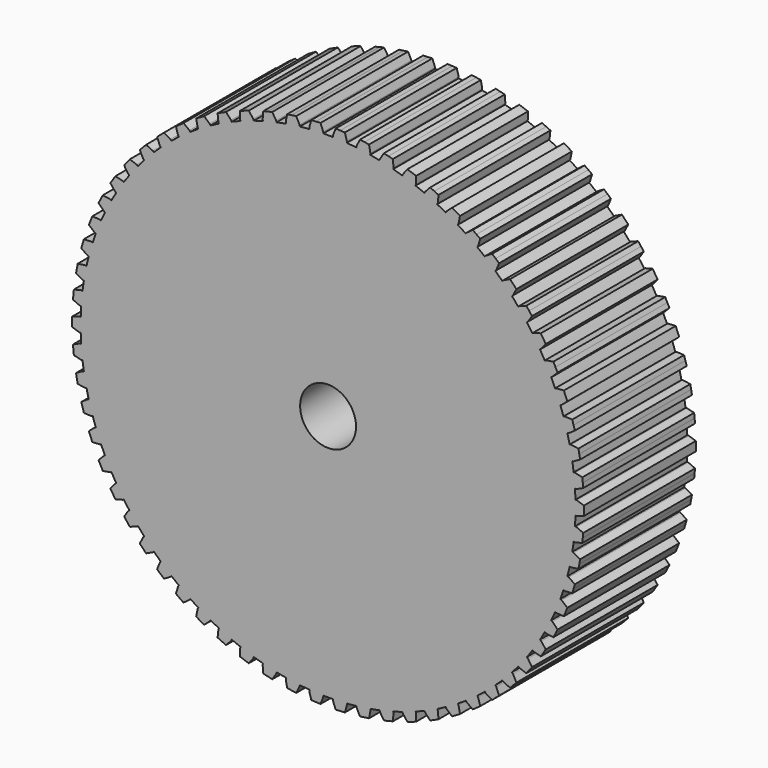
from build123d import *

# Parameters (mm, degrees)
F1_DEPTH = 10
F2_R     = 2
F3_DEPTH = 25.4


with BuildPart() as f1:
    # F0 (on Front) → F1 (new body)
    with BuildSketch(Plane.XZ):
        with BuildLine():
            ThreePointArc((17.692936, -0.5), (17.698234, -0.250025), (17.7, 0))
            ThreePointArc((17.7, 0), (17.698234, 0.250025), (17.692936, 0.5))
            ThreePointArc((17.692936, 0.5), (17.679952, 0.8422), (17.660349, 1.184085))
            ThreePointArc((17.660349, 1.184085), (17.619853, 1.682492), (17.565293, 2.179556))
            ThreePointArc((17.565293, 2.179556), (17.51984, 2.518973), (17.467828, 2.857446))
            ThreePointArc((17.467828, 2.857446), (17.380138, 3.349747), (17.278576, 3.839375))
            ThreePointArc((17.278576, 3.839375), (17.201065, 4.172933), (17.117114, 4.50493))
            ThreePointArc((17.117114, 4.50493), (16.983026, 4.986666), (16.835382, 5.464423))
            ThreePointArc((16.835382, 5.464423), (16.726514, 5.789103), (16.611386, 6.111616))
            ThreePointArc((16.611386, 6.111616), (16.432112, 6.578425), (16.239724, 7.039984))
            ThreePointArc((16.239724, 7.039984), (16.100486, 7.352846), (15.955222, 7.662955))
            ThreePointArc((15.955222, 7.662955), (15.732387, 8.110609), (15.496996, 8.55179))
            ThreePointArc((15.496996, 8.55179), (15.32865, 8.85), (15.154566, 9.144897))
            ThreePointArc((15.154566, 9.144897), (14.890188, 9.569342), (14.613925, 9.98615))
            ThreePointArc((14.613925, 9.98615), (14.417994, 10.267007), (14.216667, 10.544021))
            ThreePointArc((14.216667, 10.544021), (13.91314, 10.941414), (13.598508, 11.330074))
            ThreePointArc((13.598508, 11.330074), (13.376767, 11.591035), (13.15002, 11.847657))
            ThreePointArc((13.15002, 11.847657), (12.810092, 12.214399), (12.459941, 12.571391))
            ThreePointArc((12.459941, 12.571391), (12.214399, 12.810092), (11.964284, 13.043999))
            ThreePointArc((11.964284, 13.043999), (11.591035, 13.376767), (11.208535, 13.69886))
            ThreePointArc((11.208535, 13.69886), (10.941414, 13.91314), (10.670198, 14.122212))
            ThreePointArc((10.670198, 14.122212), (10.267007, 14.417994), (9.855622, 14.702269))
            ThreePointArc((9.855622, 14.702269), (9.569342, 14.890188), (9.279481, 15.072532))
            ThreePointArc((9.279481, 15.072532), (8.85, 15.32865), (8.413456, 15.572532))
            ThreePointArc((8.413456, 15.572532), (8.110609, 15.732387), (7.804727, 15.886354))
            ThreePointArc((7.804727, 15.886354), (7.352846, 16.100486), (6.895095, 16.301769))
            ThreePointArc((6.895095, 16.301769), (6.578425, 16.432112), (6.259293, 16.556305))
            ThreePointArc((6.259293, 16.556305), (5.789103, 16.726514), (5.314292, 16.883373))
            ThreePointArc((5.314292, 16.883373), (4.986666, 16.983026), (4.657174, 17.076321))
            ThreePointArc((4.657174, 17.076321), (4.172933, 17.201065), (3.685362, 17.31208))
            ThreePointArc((3.685362, 17.31208), (3.349747, 17.380138), (3.012878, 17.44169))
            ThreePointArc((3.012878, 17.44169), (2.518973, 17.51984), (2.023057, 17.584005))
            ThreePointArc((2.023057, 17.584005), (1.682492, 17.619853), (1.341297, 17.649105))
            ThreePointArc((1.341297, 17.649105), (0.8422, 17.679952), (0.34243, 17.696687))
            ThreePointArc((0.34243, 17.696687), (0, 17.7), (-0.34243, 17.696687))
            ThreePointArc((-0.34243, 17.696687), (-0.8422, 17.679952), (-1.341297, 17.649105))
            ThreePointArc((-1.341297, 17.649105), (-1.682492, 17.619853), (-2.023057, 17.584005))
            ThreePointArc((-2.023057, 17.584005), (-2.518973, 17.51984), (-3.012878, 17.44169))
            ThreePointArc((-3.012878, 17.44169), (-3.349747, 17.380138), (-3.685362, 17.31208))
            ThreePointArc((-3.685362, 17.31208), (-4.172933, 17.201065), (-4.657174, 17.076321))
            ThreePointArc((-4.657174, 17.076321), (-4.986666, 16.983026), (-5.314292, 16.883373))
            ThreePointArc((-5.314292, 16.883373), (-5.789103, 16.726514), (-6.259293, 16.556305))
            ThreePointArc((-6.259293, 16.556305), (-6.578425, 16.432112), (-6.895095, 16.301769))
            ThreePointArc((-6.895095, 16.301769), (-7.352846, 16.100486), (-7.804727, 15.886354))
            ThreePointArc((-7.804727, 15.886354), (-8.110609, 15.732387), (-8.413456, 15.572532))
            ThreePointArc((-8.413456, 15.572532), (-8.85, 15.32865), (-9.279481, 15.072532))
            ThreePointArc((-9.279481, 15.072532), (-9.569342, 14.890188), (-9.855622, 14.702269))
            ThreePointArc((-9.855622, 14.702269), (-10.267007, 14.417994), (-10.670198, 14.122212))
            ThreePointArc((-10.670198, 14.122212), (-10.941414, 13.91314), (-11.208535, 13.69886))
            ThreePointArc((-11.208535, 13.69886), (-11.591035, 13.376767), (-11.964284, 13.043999))
            ThreePointArc((-11.964284, 13.043999), (-12.214399, 12.810092), (-12.459941, 12.571391))
            ThreePointArc((-12.459941, 12.571391), (-12.810092, 12.214399), (-13.15002, 11.847657))
            ThreePointArc((-13.15002, 11.847657), (-13.376767, 11.591035), (-13.598508, 11.330074))
            ThreePointArc((-13.598508, 11.330074), (-13.91314, 10.941414), (-14.216667, 10.544021))
            ThreePointArc((-14.216667, 10.544021), (-14.417994, 10.267007), (-14.613925, 9.98615))
            ThreePointArc((-14.613925, 9.98615), (-14.890188, 9.569342), (-15.154566, 9.144897))
            ThreePointArc((-15.154566, 9.144897), (-15.32865, 8.85), (-15.496996, 8.55179))
            ThreePointArc((-15.496996, 8.55179), (-15.732387, 8.110609), (-15.955222, 7.662955))
            ThreePointArc((-15.955222, 7.662955), (-16.100486, 7.352846), (-16.239724, 7.039984))
            ThreePointArc((-16.239724, 7.039984), (-16.432112, 6.578425), (-16.611386, 6.111616))
            ThreePointArc((-16.611386, 6.111616), (-16.726514, 5.789103), (-16.835382, 5.464423))
            ThreePointArc((-16.835382, 5.464423), (-16.983026, 4.986666), (-17.117114, 4.50493))
            ThreePointArc((-17.117114, 4.50493), (-17.201065, 4.172933), (-17.278576, 3.839375))
            ThreePointArc((-17.278576, 3.839375), (-17.380138, 3.349747), (-17.467828, 2.857446))
            ThreePointArc((-17.467828, 2.857446), (-17.51984, 2.518973), (-17.565293, 2.179556))
            ThreePointArc((-17.565293, 2.179556), (-17.619853, 1.682492), (-17.660349, 1.184085))
            ThreePointArc((-17.660349, 1.184085), (-17.679952, 0.8422), (-17.692936, 0.5))
            ThreePointArc((-17.692936, 0.5), (-17.7, 0), (-17.692936, -0.5))
            ThreePointArc((-17.692936, -0.5), (-17.679952, -0.8422), (-17.660349, -1.184085))
            ThreePointArc((-17.660349, -1.184085), (-17.619853, -1.682492), (-17.565293, -2.179556))
            ThreePointArc((-17.565293, -2.179556), (-17.51984, -2.518973), (-17.467828, -2.857446))
            ThreePointArc((-17.467828, -2.857446), (-17.380138, -3.349747), (-17.278576, -3.839375))
            ThreePointArc((-17.278576, -3.839375), (-17.201065, -4.172933), (-17.117114, -4.50493))
            ThreePointArc((-17.117114, -4.50493), (-16.983026, -4.986666), (-16.835382, -5.464423))
            ThreePointArc((-16.835382, -5.464423), (-16.726514, -5.789103), (-16.611386, -6.111616))
            ThreePointArc((-16.611386, -6.111616), (-16.432112, -6.578425), (-16.239724, -7.039984))
            ThreePointArc((-16.239724, -7.039984), (-16.100486, -7.352846), (-15.955222, -7.662955))
            ThreePointArc((-15.955222, -7.662955), (-15.732387, -8.110609), (-15.496996, -8.55179))
            ThreePointArc((-15.496996, -8.55179), (-15.32865, -8.85), (-15.154566, -9.144897))
            ThreePointArc((-15.154566, -9.144897), (-14.890188, -9.569342), (-14.613925, -9.98615))
            ThreePointArc((-14.613925, -9.98615), (-14.417994, -10.267007), (-14.216667, -10.544021))
            ThreePointArc((-14.216667, -10.544021), (-13.91314, -10.941414), (-13.598508, -11.330074))
            ThreePointArc((-13.598508, -11.330074), (-13.376767, -11.591035), (-13.15002, -11.847657))
            ThreePointArc((-13.15002, -11.847657), (-12.810092, -12.214399), (-12.459941, -12.571391))
            ThreePointArc((-12.459941, -12.571391), (-12.214399, -12.810092), (-11.964284, -13.043999))
            ThreePointArc((-11.964284, -13.043999), (-11.591035, -13.376767), (-11.208535, -13.69886))
            ThreePointArc((-11.208535, -13.69886), (-10.941414, -13.91314), (-10.670198, -14.122212))
            ThreePointArc((-10.670198, -14.122212), (-10.267007, -14.417994), (-9.855622, -14.702269))
            ThreePointArc((-9.855622, -14.702269), (-9.569342, -14.890188), (-9.279481, -15.072532))
            ThreePointArc((-9.279481, -15.072532), (-8.85, -15.32865), (-8.413456, -15.572532))
            ThreePointArc((-8.413456, -15.572532), (-8.110609, -15.732387), (-7.804727, -15.886354))
            ThreePointArc((-7.804727, -15.886354), (-7.352846, -16.100486), (-6.895095, -16.301769))
            ThreePointArc((-6.895095, -16.301769), (-6.578425, -16.432112), (-6.259293, -16.556305))
            ThreePointArc((-6.259293, -16.556305), (-5.789103, -16.726514), (-5.314292, -16.883373))
            ThreePointArc((-5.314292, -16.883373), (-4.986666, -16.983026), (-4.657174, -17.076321))
            ThreePointArc((-4.657174, -17.076321), (-4.172933, -17.201065), (-3.685362, -17.31208))
            ThreePointArc((-3.685362, -17.31208), (-3.349747, -17.380138), (-3.012878, -17.44169))
            ThreePointArc((-3.012878, -17.44169), (-2.518973, -17.51984), (-2.023057, -17.584005))
            ThreePointArc((-2.023057, -17.584005), (-1.682492, -17.619853), (-1.341297, -17.649105))
            ThreePointArc((-1.341297, -17.649105), (-0.8422, -17.679952), (-0.34243, -17.696687))
            ThreePointArc((-0.34243, -17.696687), (0, -17.7), (0.34243, -17.696687))
            ThreePointArc((0.34243, -17.696687), (0.8422, -17.679952), (1.341297, -17.649105))
            ThreePointArc((1.341297, -17.649105), (1.682492, -17.619853), (2.023057, -17.584005))
            ThreePointArc((2.023057, -17.584005), (2.518973, -17.51984), (3.012878, -17.44169))
            ThreePointArc((3.012878, -17.44169), (3.349747, -17.380138), (3.685362, -17.31208))
            ThreePointArc((3.685362, -17.31208), (4.172933, -17.201065), (4.657174, -17.076321))
            ThreePointArc((4.657174, -17.076321), (4.986666, -16.983026), (5.314292, -16.883373))
            ThreePointArc((5.314292, -16.883373), (5.789103, -16.726514), (6.259293, -16.556305))
            ThreePointArc((6.259293, -16.556305), (6.578425, -16.432112), (6.895095, -16.301769))
            ThreePointArc((6.895095, -16.301769), (7.352846, -16.100486), (7.804727, -15.886354))
            ThreePointArc((7.804727, -15.886354), (8.110609, -15.732387), (8.413456, -15.572532))
            ThreePointArc((8.413456, -15.572532), (8.85, -15.32865), (9.279481, -15.072532))
            ThreePointArc((9.279481, -15.072532), (9.569342, -14.890188), (9.855622, -14.702269))
            ThreePointArc((9.855622, -14.702269), (10.267007, -14.417994), (10.670198, -14.122212))
            ThreePointArc((10.670198, -14.122212), (10.941414, -13.91314), (11.208535, -13.69886))
            ThreePointArc((11.208535, -13.69886), (11.591035, -13.376767), (11.964284, -13.043999))
            ThreePointArc((11.964284, -13.043999), (12.214399, -12.810092), (12.459941, -12.571391))
            ThreePointArc((12.459941, -12.571391), (12.810092, -12.214399), (13.15002, -11.847657))
            ThreePointArc((13.15002, -11.847657), (13.376767, -11.591035), (13.598508, -11.330074))
            ThreePointArc((13.598508, -11.330074), (13.91314, -10.941414), (14.216667, -10.544021))
            ThreePointArc((14.216667, -10.544021), (14.417994, -10.267007), (14.613925, -9.98615))
            ThreePointArc((14.613925, -9.98615), (14.890188, -9.569342), (15.154566, -9.144897))
            ThreePointArc((15.154566, -9.144897), (15.32865, -8.85), (15.496996, -8.55179))
            ThreePointArc((15.496996, -8.55179), (15.732387, -8.110609), (15.955222, -7.662955))
            ThreePointArc((15.955222, -7.662955), (16.100486, -7.352846), (16.239724, -7.039984))
            ThreePointArc((16.239724, -7.039984), (16.432112, -6.578425), (16.611386, -6.111616))
            ThreePointArc((16.611386, -6.111616), (16.726514, -5.789103), (16.835382, -5.464423))
            ThreePointArc((16.835382, -5.464423), (16.983026, -4.986666), (17.117114, -4.50493))
            ThreePointArc((17.117114, -4.50493), (17.201065, -4.172933), (17.278576, -3.839375))
            ThreePointArc((17.278576, -3.839375), (17.380138, -3.349747), (17.467828, -2.857446))
            ThreePointArc((17.467828, -2.857446), (17.51984, -2.518973), (17.565293, -2.179556))
            ThreePointArc((17.565293, -2.179556), (17.619853, -1.682492), (17.660349, -1.184085))
            ThreePointArc((17.660349, -1.184085), (17.679952, -0.8422), (17.692936, -0.5))
        make_face()
        with BuildLine():
            ThreePointArc((17.692936, 0.5), (17.698234, 0.250025), (17.7, 0))
            ThreePointArc((17.7, 0), (17.698234, -0.250025), (17.692936, -0.5))
            Line((17.692936, -0.5), (17.792936, -0.5))
            Line((17.792936, -0.5), (18.3, -0.329923))
            Line((18.3, -0.329923), (18.3, 0))
            Line((18.3, 0), (18.3, 0.329923))
            Line((18.3, 0.329923), (17.792936, 0.5))
            Line((17.792936, 0.5), (17.692936, 0.5))
        make_face()
        with BuildLine():
            ThreePointArc((17.565293, 2.179556), (17.619853, 1.682492), (17.660349, 1.184085))
            Line((17.660349, 1.184085), (17.759897, 1.19359))
            Line((17.759897, 1.19359), (18.248497, 1.411096))
            Line((18.248497, 1.411096), (18.217136, 1.739526))
            Line((18.217136, 1.739526), (18.185775, 2.067955))
            Line((18.185775, 2.067955), (17.664841, 2.189062))
            Line((17.664841, 2.189062), (17.565293, 2.179556))
        make_face()
        with BuildLine():
            Line((17.759897, -1.19359), (17.660349, -1.184085))
            ThreePointArc((17.660349, -1.184085), (17.619853, -1.682492), (17.565293, -2.179556))
            Line((17.565293, -2.179556), (17.664841, -2.189062))
            Line((17.664841, -2.189062), (18.185775, -2.067955))
            Line((18.185775, -2.067955), (18.217136, -1.739526))
            Line((18.217136, -1.739526), (18.248497, -1.411096))
            Line((18.248497, -1.411096), (17.759897, -1.19359))
        make_face()
        with BuildLine():
            ThreePointArc((17.278576, 3.839375), (17.380138, 3.349747), (17.467828, 2.857446))
            Line((17.467828, 2.857446), (17.566021, 2.876371))
            Line((17.566021, 2.876371), (18.031734, 3.139336))
            Line((18.031734, 3.139336), (17.969295, 3.463298))
            Line((17.969295, 3.463298), (17.906857, 3.787259))
            Line((17.906857, 3.787259), (17.376769, 3.8583))
            Line((17.376769, 3.8583), (17.278576, 3.839375))
        make_face()
        with BuildLine():
            Line((17.566021, -2.876371), (17.467828, -2.857446))
            ThreePointArc((17.467828, -2.857446), (17.380138, -3.349747), (17.278576, -3.839375))
            Line((17.278576, -3.839375), (17.376769, -3.8583))
            Line((17.376769, -3.8583), (17.906857, -3.787259))
            Line((17.906857, -3.787259), (17.969295, -3.463298))
            Line((17.969295, -3.463298), (18.031734, -3.139336))
            Line((18.031734, -3.139336), (17.566021, -2.876371))
        make_face()
        with BuildLine():
            ThreePointArc((16.835382, 5.464423), (16.983026, 4.986666), (17.117114, 4.50493))
            Line((17.117114, 4.50493), (17.213064, 4.533103))
            Line((17.213064, 4.533103), (17.651672, 4.839147))
            Line((17.651672, 4.839147), (17.558721, 5.155706))
            Line((17.558721, 5.155706), (17.465771, 5.472265))
            Line((17.465771, 5.472265), (16.931331, 5.492596))
            Line((16.931331, 5.492596), (16.835382, 5.464423))
        make_face()
        with BuildLine():
            Line((17.213064, -4.533103), (17.117114, -4.50493))
            ThreePointArc((17.117114, -4.50493), (16.983026, -4.986666), (16.835382, -5.464423))
            Line((16.835382, -5.464423), (16.931331, -5.492596))
            Line((16.931331, -5.492596), (17.465771, -5.472265))
            Line((17.465771, -5.472265), (17.558721, -5.155706))
            Line((17.558721, -5.155706), (17.651672, -4.839147))
            Line((17.651672, -4.839147), (17.213064, -4.533103))
        make_face()
        with BuildLine():
            ThreePointArc((16.239724, 7.039984), (16.432112, 6.578425), (16.611386, 6.111616))
            Line((16.611386, 6.111616), (16.704223, 6.148782))
            Line((16.704223, 6.148782), (17.111753, 6.495133))
            Line((17.111753, 6.495133), (16.989133, 6.801423))
            Line((16.989133, 6.801423), (16.866513, 7.107713))
            Line((16.866513, 7.107713), (16.33256, 7.07715))
            Line((16.33256, 7.07715), (16.239724, 7.039984))
        make_face()
        with BuildLine():
            Line((16.704223, -6.148782), (16.611386, -6.111616))
            ThreePointArc((16.611386, -6.111616), (16.432112, -6.578425), (16.239724, -7.039984))
            Line((16.239724, -7.039984), (16.33256, -7.07715))
            Line((16.33256, -7.07715), (16.866513, -7.107713))
            Line((16.866513, -7.107713), (16.989133, -6.801423))
            Line((16.989133, -6.801423), (17.111753, -6.495133))
            Line((17.111753, -6.495133), (16.704223, -6.148782))
        make_face()
        with BuildLine():
            ThreePointArc((15.496996, 8.55179), (15.732387, 8.110609), (15.955222, 7.662955))
            Line((15.955222, 7.662955), (16.044106, 7.708778))
            Line((16.044106, 7.708778), (16.416868, 8.092298))
            Line((16.416868, 8.092298), (16.265689, 8.385545))
            Line((16.265689, 8.385545), (16.114509, 8.678793))
            Line((16.114509, 8.678793), (15.585879, 8.597613))
            Line((15.585879, 8.597613), (15.496996, 8.55179))
        make_face()
        with BuildLine():
            Line((16.044106, -7.708778), (15.955222, -7.662955))
            ThreePointArc((15.955222, -7.662955), (15.732387, -8.110609), (15.496996, -8.55179))
            Line((15.496996, -8.55179), (15.585879, -8.597613))
            Line((15.585879, -8.597613), (16.114509, -8.678793))
            Line((16.114509, -8.678793), (16.265689, -8.385545))
            Line((16.265689, -8.385545), (16.416868, -8.092298))
            Line((16.416868, -8.092298), (16.044106, -7.708778))
        make_face()
        with BuildLine():
            ThreePointArc((14.613925, 9.98615), (14.890188, 9.569342), (15.154566, 9.144897))
            Line((15.154566, 9.144897), (15.238691, 9.198961))
            Line((15.238691, 9.198961), (15.57331, 9.616178))
            Line((15.57331, 9.616178), (15.39494, 9.893727))
            Line((15.39494, 9.893727), (15.21657, 10.171276))
            Line((15.21657, 10.171276), (14.69805, 10.040214))
            Line((14.69805, 10.040214), (14.613925, 9.98615))
        make_face()
        with BuildLine():
            Line((15.238691, -9.198961), (15.154566, -9.144897))
            ThreePointArc((15.154566, -9.144897), (14.890188, -9.569342), (14.613925, -9.98615))
            Line((14.613925, -9.98615), (14.69805, -10.040214))
            Line((14.69805, -10.040214), (15.21657, -10.171276))
            Line((15.21657, -10.171276), (15.39494, -9.893727))
            Line((15.39494, -9.893727), (15.57331, -9.616178))
            Line((15.57331, -9.616178), (15.238691, -9.198961))
        make_face()
        with BuildLine():
            ThreePointArc((13.598508, 11.330074), (13.91314, 10.941414), (14.216667, 10.544021))
            Line((14.216667, 10.544021), (14.295272, 10.605837))
            Line((14.295272, 10.605837), (14.588717, 11.052972))
            Line((14.588717, 11.052972), (14.384772, 11.312309))
            Line((14.384772, 11.312309), (14.180826, 11.571647))
            Line((14.180826, 11.571647), (13.677113, 11.39189))
            Line((13.677113, 11.39189), (13.598508, 11.330074))
        make_face()
        with BuildLine():
            Line((14.295272, -10.605837), (14.216667, -10.544021))
            ThreePointArc((14.216667, -10.544021), (13.91314, -10.941414), (13.598508, -11.330074))
            Line((13.598508, -11.330074), (13.677113, -11.39189))
            Line((13.677113, -11.39189), (14.180826, -11.571647))
            Line((14.180826, -11.571647), (14.384772, -11.312309))
            Line((14.384772, -11.312309), (14.588717, -11.052972))
            Line((14.588717, -11.052972), (14.295272, -10.605837))
        make_face()
        with BuildLine():
            ThreePointArc((12.459941, 12.571391), (12.810092, 12.214399), (13.15002, 11.847657))
            Line((13.15002, 11.847657), (13.222393, 11.916665))
            Line((13.222393, 11.916665), (13.472006, 12.389669))
            Line((13.472006, 12.389669), (13.244333, 12.628446))
            Line((13.244333, 12.628446), (13.01666, 12.867223))
            Line((13.01666, 12.867223), (12.532314, 12.640399))
            Line((12.532314, 12.640399), (12.459941, 12.571391))
        make_face()
        with BuildLine():
            Line((13.222393, -11.916665), (13.15002, -11.847657))
            ThreePointArc((13.15002, -11.847657), (12.810092, -12.214399), (12.459941, -12.571391))
            Line((12.459941, -12.571391), (12.532314, -12.640399))
            Line((12.532314, -12.640399), (13.01666, -12.867223))
            Line((13.01666, -12.867223), (13.244333, -12.628446))
            Line((13.244333, -12.628446), (13.472006, -12.389669))
            Line((13.472006, -12.389669), (13.222393, -11.916665))
        make_face()
        with BuildLine():
            ThreePointArc((11.208535, 13.69886), (11.591035, 13.376767), (11.964284, 13.043999))
            Line((11.964284, 13.043999), (12.02977, 13.119574))
            Line((12.02977, 13.119574), (12.233291, 13.614163))
            Line((12.233291, 13.614163), (11.983951, 13.830217))
            Line((11.983951, 13.830217), (11.734612, 14.046271))
            Line((11.734612, 14.046271), (11.274021, 13.774435))
            Line((11.274021, 13.774435), (11.208535, 13.69886))
        make_face()
        with BuildLine():
            Line((12.02977, -13.119574), (11.964284, -13.043999))
            ThreePointArc((11.964284, -13.043999), (11.591035, -13.376767), (11.208535, -13.69886))
            Line((11.208535, -13.69886), (11.274021, -13.774435))
            Line((11.274021, -13.774435), (11.734612, -14.046271))
            Line((11.734612, -14.046271), (11.983951, -13.830217))
            Line((11.983951, -13.830217), (12.233291, -13.614163))
            Line((12.233291, -13.614163), (12.02977, -13.119574))
        make_face()
        with BuildLine():
            ThreePointArc((9.855622, 14.702269), (10.267007, 14.417994), (10.670198, 14.122212))
            Line((10.670198, 14.122212), (10.728204, 14.20367))
            Line((10.728204, 14.20367), (10.883789, 14.715366))
            Line((10.883789, 14.715366), (10.615041, 14.90674))
            Line((10.615041, 14.90674), (10.346294, 15.098114))
            Line((10.346294, 15.098114), (9.913628, 14.783727))
            Line((9.913628, 14.783727), (9.855622, 14.702269))
        make_face()
        with BuildLine():
            Line((10.728204, -14.20367), (10.670198, -14.122212))
            ThreePointArc((10.670198, -14.122212), (10.267007, -14.417994), (9.855622, -14.702269))
            Line((9.855622, -14.702269), (9.913628, -14.783727))
            Line((9.913628, -14.783727), (10.346294, -15.098114))
            Line((10.346294, -15.098114), (10.615041, -14.90674))
            Line((10.615041, -14.90674), (10.883789, -14.715366))
            Line((10.883789, -14.715366), (10.728204, -14.20367))
        make_face()
        with BuildLine():
            ThreePointArc((8.413456, 15.572532), (8.85, 15.32865), (9.279481, 15.072532))
            Line((9.279481, 15.072532), (9.329481, 15.159135))
            Line((9.329481, 15.159135), (9.435722, 15.683303))
            Line((9.435722, 15.683303), (9.15, 15.848265))
            Line((9.15, 15.848265), (8.864278, 16.013227))
            Line((8.864278, 16.013227), (8.463456, 15.659135))
            Line((8.463456, 15.659135), (8.413456, 15.572532))
        make_face()
        with BuildLine():
            Line((9.329481, -15.159135), (9.279481, -15.072532))
            ThreePointArc((9.279481, -15.072532), (8.85, -15.32865), (8.413456, -15.572532))
            Line((8.413456, -15.572532), (8.463456, -15.659135))
            Line((8.463456, -15.659135), (8.864278, -16.013227))
            Line((8.864278, -16.013227), (9.15, -15.848265))
            Line((9.15, -15.848265), (9.435722, -15.683303))
            Line((9.435722, -15.683303), (9.329481, -15.159135))
        make_face()
        with BuildLine():
            ThreePointArc((6.895095, 16.301769), (7.352846, 16.100486), (7.804727, 15.886354))
            Line((7.804727, 15.886354), (7.846269, 15.977317))
            Line((7.846269, 15.977317), (7.902204, 16.50921))
            Line((7.902204, 16.50921), (7.602095, 16.646266))
            Line((7.602095, 16.646266), (7.301986, 16.783321))
            Line((7.301986, 16.783321), (6.936637, 16.392732))
            Line((6.936637, 16.392732), (6.895095, 16.301769))
        make_face()
        with BuildLine():
            Line((7.846269, -15.977317), (7.804727, -15.886354))
            ThreePointArc((7.804727, -15.886354), (7.352846, -16.100486), (6.895095, -16.301769))
            Line((6.895095, -16.301769), (6.936637, -16.392732))
            Line((6.936637, -16.392732), (7.301986, -16.783321))
            Line((7.301986, -16.783321), (7.602095, -16.646266))
            Line((7.602095, -16.646266), (7.902204, -16.50921))
            Line((7.902204, -16.50921), (7.846269, -15.977317))
        make_face()
        with BuildLine():
            ThreePointArc((5.314292, 16.883373), (5.789103, 16.726514), (6.259293, 16.556305))
            Line((6.259293, 16.556305), (6.292, 16.650806))
            Line((6.292, 16.650806), (6.297122, 17.185608))
            Line((6.297122, 17.185608), (5.985344, 17.293515))
            Line((5.985344, 17.293515), (5.673566, 17.401422))
            Line((5.673566, 17.401422), (5.346999, 16.977873))
            Line((5.346999, 16.977873), (5.314292, 16.883373))
        make_face()
        with BuildLine():
            Line((6.292, -16.650806), (6.259293, -16.556305))
            ThreePointArc((6.259293, -16.556305), (5.789103, -16.726514), (5.314292, -16.883373))
            Line((5.314292, -16.883373), (5.346999, -16.977873))
            Line((5.346999, -16.977873), (5.673566, -17.401422))
            Line((5.673566, -17.401422), (5.985344, -17.293515))
            Line((5.985344, -17.293515), (6.297122, -17.185608))
            Line((6.297122, -17.185608), (6.292, -16.650806))
        make_face()
        with BuildLine():
            ThreePointArc((3.685362, 17.31208), (4.172933, 17.201065), (4.657174, 17.076321))
            Line((4.657174, 17.076321), (4.68075, 17.173502))
            Line((4.68075, 17.173502), (4.635012, 17.706369))
            Line((4.635012, 17.706369), (4.314389, 17.784152))
            Line((4.314389, 17.784152), (3.993765, 17.861934))
            Line((3.993765, 17.861934), (3.708938, 17.409261))
            Line((3.708938, 17.409261), (3.685362, 17.31208))
        make_face()
        with BuildLine():
            Line((4.68075, -17.173502), (4.657174, -17.076321))
            ThreePointArc((4.657174, -17.076321), (4.172933, -17.201065), (3.685362, -17.31208))
            Line((3.685362, -17.31208), (3.708938, -17.409261))
            Line((3.708938, -17.409261), (3.993765, -17.861934))
            Line((3.993765, -17.861934), (4.314389, -17.784152))
            Line((4.314389, -17.784152), (4.635012, -17.706369))
            Line((4.635012, -17.706369), (4.68075, -17.173502))
        make_face()
        with BuildLine():
            ThreePointArc((2.023057, 17.584005), (2.518973, 17.51984), (3.012878, 17.44169))
            Line((3.012878, 17.44169), (3.02711, 17.540673))
            Line((3.02711, 17.540673), (2.930927, 18.066779))
            Line((2.930927, 18.066779), (2.604362, 18.113732))
            Line((2.604362, 18.113732), (2.277796, 18.160685))
            Line((2.277796, 18.160685), (2.037288, 17.682987))
            Line((2.037288, 17.682987), (2.023057, 17.584005))
        make_face()
        with BuildLine():
            Line((3.02711, -17.540673), (3.012878, -17.44169))
            ThreePointArc((3.012878, -17.44169), (2.518973, -17.51984), (2.023057, -17.584005))
            Line((2.023057, -17.584005), (2.037288, -17.682987))
            Line((2.037288, -17.682987), (2.277796, -18.160685))
            Line((2.277796, -18.160685), (2.604362, -18.113732))
            Line((2.604362, -18.113732), (2.930927, -18.066779))
            Line((2.930927, -18.066779), (3.02711, -17.540673))
        make_face()
        with BuildLine():
            ThreePointArc((0.34243, 17.696687), (0.8422, 17.679952), (1.341297, 17.649105))
            Line((1.341297, 17.649105), (1.346056, 17.748992))
            Line((1.346056, 17.748992), (1.200299, 18.263574))
            Line((1.200299, 18.263574), (0.870749, 18.279272))
            Line((0.870749, 18.279272), (0.541199, 18.294971))
            Line((0.541199, 18.294971), (0.347188, 17.796574))
            Line((0.347188, 17.796574), (0.34243, 17.696687))
        make_face()
        with BuildLine():
            Line((1.346056, -17.748992), (1.341297, -17.649105))
            ThreePointArc((1.341297, -17.649105), (0.8422, -17.679952), (0.34243, -17.696687))
            Line((0.34243, -17.696687), (0.347188, -17.796574))
            Line((0.347188, -17.796574), (0.541199, -18.294971))
            Line((0.541199, -18.294971), (0.870749, -18.279272))
            Line((0.870749, -18.279272), (1.200299, -18.263574))
            Line((1.200299, -18.263574), (1.346056, -17.748992))
        make_face()
        with BuildLine():
            ThreePointArc((-1.341297, 17.649105), (-0.8422, 17.679952), (-0.34243, 17.696687))
            Line((-0.34243, 17.696687), (-0.347188, 17.796574))
            Line((-0.347188, 17.796574), (-0.541199, 18.294971))
            Line((-0.541199, 18.294971), (-0.870749, 18.279272))
            Line((-0.870749, 18.279272), (-1.200299, 18.263574))
            Line((-1.200299, 18.263574), (-1.346056, 17.748992))
            Line((-1.346056, 17.748992), (-1.341297, 17.649105))
        make_face()
        with BuildLine():
            Line((-0.347188, -17.796574), (-0.34243, -17.696687))
            ThreePointArc((-0.34243, -17.696687), (-0.8422, -17.679952), (-1.341297, -17.649105))
            Line((-1.341297, -17.649105), (-1.346056, -17.748992))
            Line((-1.346056, -17.748992), (-1.200299, -18.263574))
            Line((-1.200299, -18.263574), (-0.870749, -18.279272))
            Line((-0.870749, -18.279272), (-0.541199, -18.294971))
            Line((-0.541199, -18.294971), (-0.347188, -17.796574))
        make_face()
        with BuildLine():
            ThreePointArc((-3.012878, 17.44169), (-2.518973, 17.51984), (-2.023057, 17.584005))
            Line((-2.023057, 17.584005), (-2.037288, 17.682987))
            Line((-2.037288, 17.682987), (-2.277796, 18.160685))
            Line((-2.277796, 18.160685), (-2.604362, 18.113732))
            Line((-2.604362, 18.113732), (-2.930927, 18.066779))
            Line((-2.930927, 18.066779), (-3.02711, 17.540673))
            Line((-3.02711, 17.540673), (-3.012878, 17.44169))
        make_face()
        with BuildLine():
            Line((-2.037288, -17.682987), (-2.023057, -17.584005))
            ThreePointArc((-2.023057, -17.584005), (-2.518973, -17.51984), (-3.012878, -17.44169))
            Line((-3.012878, -17.44169), (-3.02711, -17.540673))
            Line((-3.02711, -17.540673), (-2.930927, -18.066779))
            Line((-2.930927, -18.066779), (-2.604362, -18.113732))
            Line((-2.604362, -18.113732), (-2.277796, -18.160685))
            Line((-2.277796, -18.160685), (-2.037288, -17.682987))
        make_face()
        with BuildLine():
            ThreePointArc((-4.657174, 17.076321), (-4.172933, 17.201065), (-3.685362, 17.31208))
            Line((-3.685362, 17.31208), (-3.708938, 17.409261))
            Line((-3.708938, 17.409261), (-3.993765, 17.861934))
            Line((-3.993765, 17.861934), (-4.314389, 17.784152))
            Line((-4.314389, 17.784152), (-4.635012, 17.706369))
            Line((-4.635012, 17.706369), (-4.68075, 17.173502))
            Line((-4.68075, 17.173502), (-4.657174, 17.076321))
        make_face()
        with BuildLine():
            Line((-3.708938, -17.409261), (-3.685362, -17.31208))
            ThreePointArc((-3.685362, -17.31208), (-4.172933, -17.201065), (-4.657174, -17.076321))
            Line((-4.657174, -17.076321), (-4.68075, -17.173502))
            Line((-4.68075, -17.173502), (-4.635012, -17.706369))
            Line((-4.635012, -17.706369), (-4.314389, -17.784152))
            Line((-4.314389, -17.784152), (-3.993765, -17.861934))
            Line((-3.993765, -17.861934), (-3.708938, -17.409261))
        make_face()
        with BuildLine():
            ThreePointArc((-6.259293, 16.556305), (-5.789103, 16.726514), (-5.314292, 16.883373))
            Line((-5.314292, 16.883373), (-5.346999, 16.977873))
            Line((-5.346999, 16.977873), (-5.673566, 17.401422))
            Line((-5.673566, 17.401422), (-5.985344, 17.293515))
            Line((-5.985344, 17.293515), (-6.297122, 17.185608))
            Line((-6.297122, 17.185608), (-6.292, 16.650806))
            Line((-6.292, 16.650806), (-6.259293, 16.556305))
        make_face()
        with BuildLine():
            Line((-5.346999, -16.977873), (-5.314292, -16.883373))
            ThreePointArc((-5.314292, -16.883373), (-5.789103, -16.726514), (-6.259293, -16.556305))
            Line((-6.259293, -16.556305), (-6.292, -16.650806))
            Line((-6.292, -16.650806), (-6.297122, -17.185608))
            Line((-6.297122, -17.185608), (-5.985344, -17.293515))
            Line((-5.985344, -17.293515), (-5.673566, -17.401422))
            Line((-5.673566, -17.401422), (-5.346999, -16.977873))
        make_face()
        with BuildLine():
            ThreePointArc((-7.804727, 15.886354), (-7.352846, 16.100486), (-6.895095, 16.301769))
            Line((-6.895095, 16.301769), (-6.936637, 16.392732))
            Line((-6.936637, 16.392732), (-7.301986, 16.783321))
            Line((-7.301986, 16.783321), (-7.602095, 16.646266))
            Line((-7.602095, 16.646266), (-7.902204, 16.50921))
            Line((-7.902204, 16.50921), (-7.846269, 15.977317))
            Line((-7.846269, 15.977317), (-7.804727, 15.886354))
        make_face()
        with BuildLine():
            Line((-6.936637, -16.392732), (-6.895095, -16.301769))
            ThreePointArc((-6.895095, -16.301769), (-7.352846, -16.100486), (-7.804727, -15.886354))
            Line((-7.804727, -15.886354), (-7.846269, -15.977317))
            Line((-7.846269, -15.977317), (-7.902204, -16.50921))
            Line((-7.902204, -16.50921), (-7.602095, -16.646266))
            Line((-7.602095, -16.646266), (-7.301986, -16.783321))
            Line((-7.301986, -16.783321), (-6.936637, -16.392732))
        make_face()
        with BuildLine():
            ThreePointArc((-9.279481, 15.072532), (-8.85, 15.32865), (-8.413456, 15.572532))
            Line((-8.413456, 15.572532), (-8.463456, 15.659135))
            Line((-8.463456, 15.659135), (-8.864278, 16.013227))
            Line((-8.864278, 16.013227), (-9.15, 15.848265))
            Line((-9.15, 15.848265), (-9.435722, 15.683303))
            Line((-9.435722, 15.683303), (-9.329481, 15.159135))
            Line((-9.329481, 15.159135), (-9.279481, 15.072532))
        make_face()
        with BuildLine():
            Line((-8.463456, -15.659135), (-8.413456, -15.572532))
            ThreePointArc((-8.413456, -15.572532), (-8.85, -15.32865), (-9.279481, -15.072532))
            Line((-9.279481, -15.072532), (-9.329481, -15.159135))
            Line((-9.329481, -15.159135), (-9.435722, -15.683303))
            Line((-9.435722, -15.683303), (-9.15, -15.848265))
            Line((-9.15, -15.848265), (-8.864278, -16.013227))
            Line((-8.864278, -16.013227), (-8.463456, -15.659135))
        make_face()
        with BuildLine():
            ThreePointArc((-10.670198, 14.122212), (-10.267007, 14.417994), (-9.855622, 14.702269))
            Line((-9.855622, 14.702269), (-9.913628, 14.783727))
            Line((-9.913628, 14.783727), (-10.346294, 15.098114))
            Line((-10.346294, 15.098114), (-10.615041, 14.90674))
            Line((-10.615041, 14.90674), (-10.883789, 14.715366))
            Line((-10.883789, 14.715366), (-10.728204, 14.20367))
            Line((-10.728204, 14.20367), (-10.670198, 14.122212))
        make_face()
        with BuildLine():
            Line((-9.913628, -14.783727), (-9.855622, -14.702269))
            ThreePointArc((-9.855622, -14.702269), (-10.267007, -14.417994), (-10.670198, -14.122212))
            Line((-10.670198, -14.122212), (-10.728204, -14.20367))
            Line((-10.728204, -14.20367), (-10.883789, -14.715366))
            Line((-10.883789, -14.715366), (-10.615041, -14.90674))
            Line((-10.615041, -14.90674), (-10.346294, -15.098114))
            Line((-10.346294, -15.098114), (-9.913628, -14.783727))
        make_face()
        with BuildLine():
            ThreePointArc((-11.964284, 13.043999), (-11.591035, 13.376767), (-11.208535, 13.69886))
            Line((-11.208535, 13.69886), (-11.274021, 13.774435))
            Line((-11.274021, 13.774435), (-11.734612, 14.046271))
            Line((-11.734612, 14.046271), (-11.983951, 13.830217))
            Line((-11.983951, 13.830217), (-12.233291, 13.614163))
            Line((-12.233291, 13.614163), (-12.02977, 13.119574))
            Line((-12.02977, 13.119574), (-11.964284, 13.043999))
        make_face()
        with BuildLine():
            Line((-11.274021, -13.774435), (-11.208535, -13.69886))
            ThreePointArc((-11.208535, -13.69886), (-11.591035, -13.376767), (-11.964284, -13.043999))
            Line((-11.964284, -13.043999), (-12.02977, -13.119574))
            Line((-12.02977, -13.119574), (-12.233291, -13.614163))
            Line((-12.233291, -13.614163), (-11.983951, -13.830217))
            Line((-11.983951, -13.830217), (-11.734612, -14.046271))
            Line((-11.734612, -14.046271), (-11.274021, -13.774435))
        make_face()
        with BuildLine():
            ThreePointArc((-13.15002, 11.847657), (-12.810092, 12.214399), (-12.459941, 12.571391))
            Line((-12.459941, 12.571391), (-12.532314, 12.640399))
            Line((-12.532314, 12.640399), (-13.01666, 12.867223))
            Line((-13.01666, 12.867223), (-13.244333, 12.628446))
            Line((-13.244333, 12.628446), (-13.472006, 12.389669))
            Line((-13.472006, 12.389669), (-13.222393, 11.916665))
            Line((-13.222393, 11.916665), (-13.15002, 11.847657))
        make_face()
        with BuildLine():
            Line((-12.532314, -12.640399), (-12.459941, -12.571391))
            ThreePointArc((-12.459941, -12.571391), (-12.810092, -12.214399), (-13.15002, -11.847657))
            Line((-13.15002, -11.847657), (-13.222393, -11.916665))
            Line((-13.222393, -11.916665), (-13.472006, -12.389669))
            Line((-13.472006, -12.389669), (-13.244333, -12.628446))
            Line((-13.244333, -12.628446), (-13.01666, -12.867223))
            Line((-13.01666, -12.867223), (-12.532314, -12.640399))
        make_face()
        with BuildLine():
            ThreePointArc((-14.216667, 10.544021), (-13.91314, 10.941414), (-13.598508, 11.330074))
            Line((-13.598508, 11.330074), (-13.677113, 11.39189))
            Line((-13.677113, 11.39189), (-14.180826, 11.571647))
            Line((-14.180826, 11.571647), (-14.384772, 11.312309))
            Line((-14.384772, 11.312309), (-14.588717, 11.052972))
            Line((-14.588717, 11.052972), (-14.295272, 10.605837))
            Line((-14.295272, 10.605837), (-14.216667, 10.544021))
        make_face()
        with BuildLine():
            Line((-13.677113, -11.39189), (-13.598508, -11.330074))
            ThreePointArc((-13.598508, -11.330074), (-13.91314, -10.941414), (-14.216667, -10.544021))
            Line((-14.216667, -10.544021), (-14.295272, -10.605837))
            Line((-14.295272, -10.605837), (-14.588717, -11.052972))
            Line((-14.588717, -11.052972), (-14.384772, -11.312309))
            Line((-14.384772, -11.312309), (-14.180826, -11.571647))
            Line((-14.180826, -11.571647), (-13.677113, -11.39189))
        make_face()
        with BuildLine():
            ThreePointArc((-15.154566, 9.144897), (-14.890188, 9.569342), (-14.613925, 9.98615))
            Line((-14.613925, 9.98615), (-14.69805, 10.040214))
            Line((-14.69805, 10.040214), (-15.21657, 10.171276))
            Line((-15.21657, 10.171276), (-15.39494, 9.893727))
            Line((-15.39494, 9.893727), (-15.57331, 9.616178))
            Line((-15.57331, 9.616178), (-15.238691, 9.198961))
            Line((-15.238691, 9.198961), (-15.154566, 9.144897))
        make_face()
        with BuildLine():
            Line((-14.69805, -10.040214), (-14.613925, -9.98615))
            ThreePointArc((-14.613925, -9.98615), (-14.890188, -9.569342), (-15.154566, -9.144897))
            Line((-15.154566, -9.144897), (-15.238691, -9.198961))
            Line((-15.238691, -9.198961), (-15.57331, -9.616178))
            Line((-15.57331, -9.616178), (-15.39494, -9.893727))
            Line((-15.39494, -9.893727), (-15.21657, -10.171276))
            Line((-15.21657, -10.171276), (-14.69805, -10.040214))
        make_face()
        with BuildLine():
            ThreePointArc((-15.955222, 7.662955), (-15.732387, 8.110609), (-15.496996, 8.55179))
            Line((-15.496996, 8.55179), (-15.585879, 8.597613))
            Line((-15.585879, 8.597613), (-16.114509, 8.678793))
            Line((-16.114509, 8.678793), (-16.265689, 8.385545))
            Line((-16.265689, 8.385545), (-16.416868, 8.092298))
            Line((-16.416868, 8.092298), (-16.044106, 7.708778))
            Line((-16.044106, 7.708778), (-15.955222, 7.662955))
        make_face()
        with BuildLine():
            Line((-15.585879, -8.597613), (-15.496996, -8.55179))
            ThreePointArc((-15.496996, -8.55179), (-15.732387, -8.110609), (-15.955222, -7.662955))
            Line((-15.955222, -7.662955), (-16.044106, -7.708778))
            Line((-16.044106, -7.708778), (-16.416868, -8.092298))
            Line((-16.416868, -8.092298), (-16.265689, -8.385545))
            Line((-16.265689, -8.385545), (-16.114509, -8.678793))
            Line((-16.114509, -8.678793), (-15.585879, -8.597613))
        make_face()
        with BuildLine():
            ThreePointArc((-16.611386, 6.111616), (-16.432112, 6.578425), (-16.239724, 7.039984))
            Line((-16.239724, 7.039984), (-16.33256, 7.07715))
            Line((-16.33256, 7.07715), (-16.866513, 7.107713))
            Line((-16.866513, 7.107713), (-16.989133, 6.801423))
            Line((-16.989133, 6.801423), (-17.111753, 6.495133))
            Line((-17.111753, 6.495133), (-16.704223, 6.148782))
            Line((-16.704223, 6.148782), (-16.611386, 6.111616))
        make_face()
        with BuildLine():
            Line((-16.33256, -7.07715), (-16.239724, -7.039984))
            ThreePointArc((-16.239724, -7.039984), (-16.432112, -6.578425), (-16.611386, -6.111616))
            Line((-16.611386, -6.111616), (-16.704223, -6.148782))
            Line((-16.704223, -6.148782), (-17.111753, -6.495133))
            Line((-17.111753, -6.495133), (-16.989133, -6.801423))
            Line((-16.989133, -6.801423), (-16.866513, -7.107713))
            Line((-16.866513, -7.107713), (-16.33256, -7.07715))
        make_face()
        with BuildLine():
            ThreePointArc((-17.117114, 4.50493), (-16.983026, 4.986666), (-16.835382, 5.464423))
            Line((-16.835382, 5.464423), (-16.931331, 5.492596))
            Line((-16.931331, 5.492596), (-17.465771, 5.472265))
            Line((-17.465771, 5.472265), (-17.558721, 5.155706))
            Line((-17.558721, 5.155706), (-17.651672, 4.839147))
            Line((-17.651672, 4.839147), (-17.213064, 4.533103))
            Line((-17.213064, 4.533103), (-17.117114, 4.50493))
        make_face()
        with BuildLine():
            Line((-16.931331, -5.492596), (-16.835382, -5.464423))
            ThreePointArc((-16.835382, -5.464423), (-16.983026, -4.986666), (-17.117114, -4.50493))
            Line((-17.117114, -4.50493), (-17.213064, -4.533103))
            Line((-17.213064, -4.533103), (-17.651672, -4.839147))
            Line((-17.651672, -4.839147), (-17.558721, -5.155706))
            Line((-17.558721, -5.155706), (-17.465771, -5.472265))
            Line((-17.465771, -5.472265), (-16.931331, -5.492596))
        make_face()
        with BuildLine():
            ThreePointArc((-17.467828, 2.857446), (-17.380138, 3.349747), (-17.278576, 3.839375))
            Line((-17.278576, 3.839375), (-17.376769, 3.8583))
            Line((-17.376769, 3.8583), (-17.906857, 3.787259))
            Line((-17.906857, 3.787259), (-17.969295, 3.463298))
            Line((-17.969295, 3.463298), (-18.031734, 3.139336))
            Line((-18.031734, 3.139336), (-17.566021, 2.876371))
            Line((-17.566021, 2.876371), (-17.467828, 2.857446))
        make_face()
        with BuildLine():
            Line((-17.376769, -3.8583), (-17.278576, -3.839375))
            ThreePointArc((-17.278576, -3.839375), (-17.380138, -3.349747), (-17.467828, -2.857446))
            Line((-17.467828, -2.857446), (-17.566021, -2.876371))
            Line((-17.566021, -2.876371), (-18.031734, -3.139336))
            Line((-18.031734, -3.139336), (-17.969295, -3.463298))
            Line((-17.969295, -3.463298), (-17.906857, -3.787259))
            Line((-17.906857, -3.787259), (-17.376769, -3.8583))
        make_face()
        with BuildLine():
            ThreePointArc((-17.660349, 1.184085), (-17.619853, 1.682492), (-17.565293, 2.179556))
            Line((-17.565293, 2.179556), (-17.664841, 2.189062))
            Line((-17.664841, 2.189062), (-18.185775, 2.067955))
            Line((-18.185775, 2.067955), (-18.217136, 1.739526))
            Line((-18.217136, 1.739526), (-18.248497, 1.411096))
            Line((-18.248497, 1.411096), (-17.759897, 1.19359))
            Line((-17.759897, 1.19359), (-17.660349, 1.184085))
        make_face()
        with BuildLine():
            Line((-17.664841, -2.189062), (-17.565293, -2.179556))
            ThreePointArc((-17.565293, -2.179556), (-17.619853, -1.682492), (-17.660349, -1.184085))
            Line((-17.660349, -1.184085), (-17.759897, -1.19359))
            Line((-17.759897, -1.19359), (-18.248497, -1.411096))
            Line((-18.248497, -1.411096), (-18.217136, -1.739526))
            Line((-18.217136, -1.739526), (-18.185775, -2.067955))
            Line((-18.185775, -2.067955), (-17.664841, -2.189062))
        make_face()
        with BuildLine():
            ThreePointArc((-17.692936, -0.5), (-17.7, 0), (-17.692936, 0.5))
            Line((-17.692936, 0.5), (-17.792936, 0.5))
            Line((-17.792936, 0.5), (-18.3, 0.329923))
            Line((-18.3, 0.329923), (-18.3, 0))
            Line((-18.3, 0), (-18.3, -0.329923))
            Line((-18.3, -0.329923), (-17.792936, -0.5))
            Line((-17.792936, -0.5), (-17.692936, -0.5))
        make_face()
    extrude(amount=F1_DEPTH)

    # F2 (on face) → F3 (cut)
    with BuildSketch(Plane.XZ.offset(10)):
        Circle(F2_R)
    extrude(amount=-F3_DEPTH, mode=Mode.SUBTRACT)


solid = f1.part
